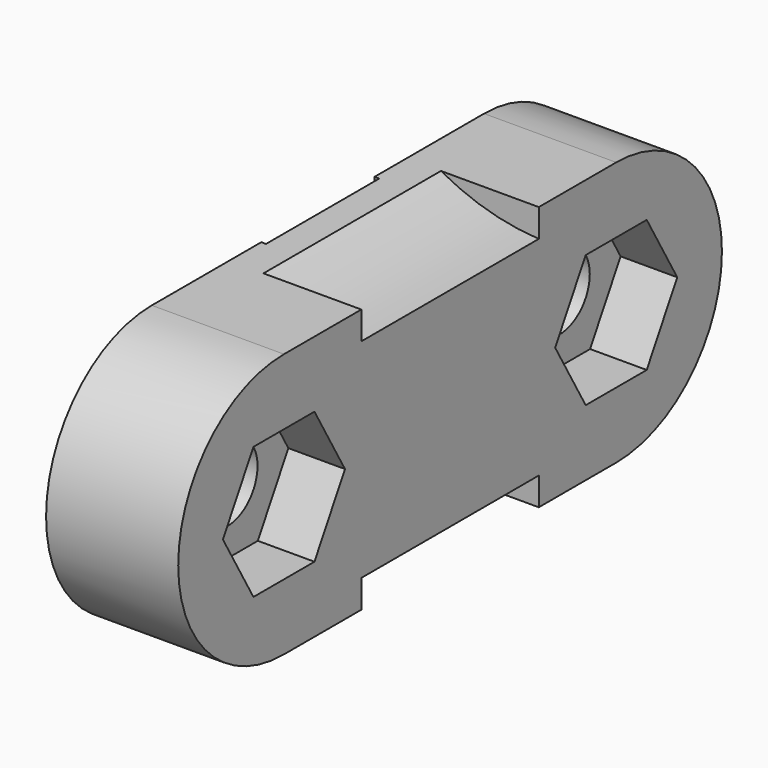
from build123d import *

# Parameters (mm, degrees)
SKETCH019_R         = 1.6
PAD007_DEPTH        = 5.6
POCKET007_DEPTH     = 2.4
POCKET008_DEPTH     = 4.7
POCKET009_DEPTH     = 3
LINEARPATTERN_COUNT = 6
LINEARPATTERN_PITCH = 2


with BuildPart() as part:
    # Sketch019 (on Face6 of Binder001) → Pad007 (new body)
    with BuildSketch(Plane.YZ.offset(-86.1)):
        with BuildLine():
            Line((8.8, 180.6), (-8.8, 180.6))
            ThreePointArc((-8.8, 180.6), (-14.4, 175), (-8.8, 169.4))
            Line((-8.8, 169.4), (8.8, 169.4))
            ThreePointArc((8.8, 169.4), (14.4, 175), (8.8, 180.6))
        make_face()
        with Locations((-8.8, 175)):
            Circle(SKETCH019_R, mode=Mode.SUBTRACT)
        with Locations((8.8, 175)):
            Circle(SKETCH019_R, mode=Mode.SUBTRACT)
    extrude(amount=PAD007_DEPTH)

    # Sketch020 (on Face8 of Pad007) → Pocket007 (cut)
    with BuildSketch(Plane.YZ.offset(-80.5)):
        Polygon((-5.566838, 175), (-7.183419, 177.8), (-10.416581, 177.8), (-12.033162, 175), (-10.416581, 172.2), (-7.183419, 172.2), align=None)
        Polygon((5.566838, 175), (7.183419, 172.2), (10.416581, 172.2), (12.033162, 175), (10.416581, 177.8), (7.183419, 177.8), align=None)
    extrude(amount=-POCKET007_DEPTH, mode=Mode.SUBTRACT)

    # Sketch021 → Pocket008 (cut, symmetric)
    with BuildSketch(Plane.XZ):
        with BuildLine():
            ThreePointArc((-86.9, 182.325421), (-83.976243, 180.26218), (-80.5, 179.41303))
            Line((-80.5, 182.325421), (-80.5, 179.41303))
            Line((-86.9, 182.325421), (-80.5, 182.325421))
        make_face()
        with BuildLine():
            ThreePointArc((-80.5, 170.58697), (-83.976243, 169.73782), (-86.9, 167.674579))
            Line((-86.9, 167.674579), (-80.5, 167.674579))
            Line((-80.5, 167.674579), (-80.5, 170.58697))
        make_face()
    extrude(amount=POCKET008_DEPTH, both=True, mode=Mode.SUBTRACT)

    # Sketch022 → Pocket009 (cut, symmetric)
    with BuildSketch(Plane.XZ):
        Polygon((-86.1, 180.8), (-85.5, 180.2), (-85.5, 179.8), (-86.1, 179.2), align=None)
    pocket009 = extrude(amount=POCKET009_DEPTH, both=True, mode=Mode.SUBTRACT)

    # LinearPattern: Pocket009 ×6
    with Locations(*[(0, 0, -i * LINEARPATTERN_PITCH) for i in range(1, LINEARPATTERN_COUNT)]):
        add(pocket009, mode=Mode.SUBTRACT)


solid = part.part
